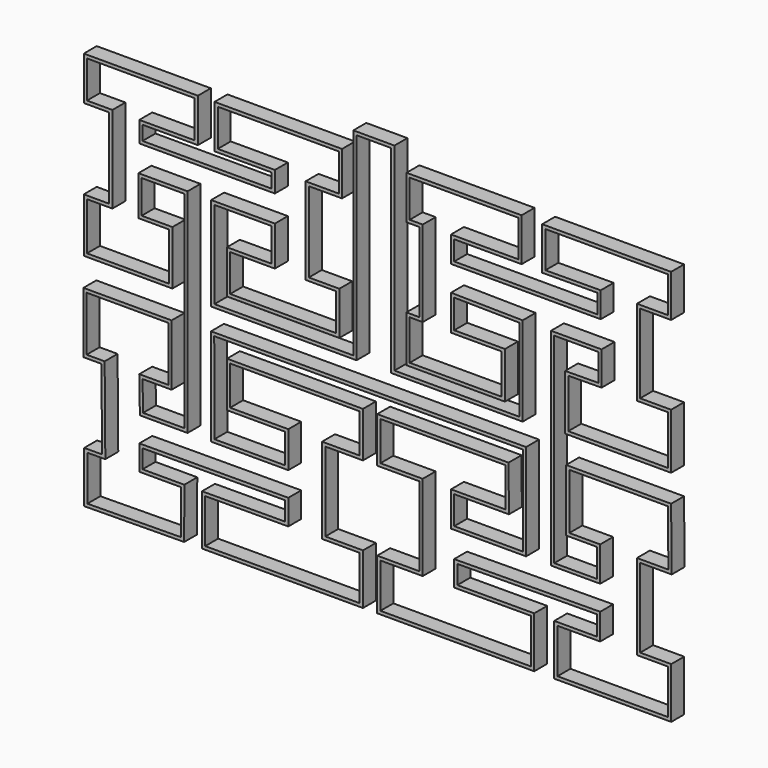
from build123d import *

# Parameters (mm, degrees)
F1_DEPTH = 5
F2_T     = -1
F3_DEPTH = 25


with BuildPart() as f1:
    # F0 (on Front) → F1 (new body)
    with BuildSketch(Plane.XZ):
        Polygon((9.8323541223, 52.141069883), (-2.8801037779, 52.141069883), (-2.8801037779, -9.1040549872), (-45.8210122276, -9.1040549872), (-45.8210122276, 17.8946969134), (-28.1239244143, 17.8946969134), (-28.1239244143, 7.6380371082), (-41.9518950383, 7.6380371082), (-41.9518950383, -5.7627889328), (-7.1966331452, -5.7627889328), (-7.1966331452, 7.6380371082), (-16.6341755539, 7.6380371082), (-16.6341755539, 32.4835627029), (-6.3618822023, 32.4835627029), (-6.3618822023, 45.9502711892), (-45.7798242569, 45.9502711892), (-45.7798242569, 32.4835627029), (-28.1239244143, 32.4835627029), (-28.1239244143, 28.068519814), (-68.0355671877, 28.068519814), (-68.0355671877, 32.4835627029), (-50.9287603199, 32.4835627029), (-50.9287603199, 45.9502711892), (-86.2032026052, 45.9502711892), (-86.2032026052, 32.4835627029), (-78.350558877, 32.4835627029), (-78.350558877, 7.6380371082), (-86.2032026052, 7.6380371082), (-86.2084256543, -9.0980247099), (-58.7982721627, -9.0980247099), (-58.7982721627, 7.6380371082), (-68.3150440454, 7.6380371082), (-68.3150440454, 17.8946969134), (-55.1193766296, 17.8946969134), (-55.1193766296, -45.8752017166), (-67.8728502767, -45.8752017166), (-68.0355671877, -36.7151834071), (-59.0528063476, -36.7151834071), (-59.0528063476, -17.8425349295), (-86.3168910146, -17.8425349295), (-86.3168910146, -36.7151834071), (-80.742649937, -36.7151834071), (-80.5478990078, -61.2841211259), (-86.0880537757, -61.3280363453), (-86.0880537757, -77.1915001414), (-55.1590844989, -76.8809225729), (-55.1193766296, -61.2841211259), (-68.0355671877, -61.2841211259), (-68.0355671877, -55.5468569188), (-23.9746289969, -55.3859008138), (-23.9746289969, -61.1902868573), (-49.6612962319, -61.2841211259), (-49.6612962319, -76.8809225729), (0.1065466786, -76.8809225729), (0.1065466786, -61.1902868573), (-11.5395281464, -61.1902868573), (-11.5395281464, -36.7151834071), (0.1065466786, -36.7151834071), (0.1065466786, -22.6845268962), (-41.9518950382, -22.6845268962), (-41.9518950382, -36.7151834071), (-23.9746289969, -36.7151834071), (-23.9746289969, -45.8752017166), (-45.8210122276, -45.8752017166), (-45.8714998239, -17.8425349295), (49.52357826, -17.6707257958), (49.52357826, -45.4286533787), (28.3165536821, -45.4286533787), (28.3165536821, -36.7151834071), (45.2205638685, -36.7151834071), (45.1130460903, -22.6736997258), (4.497054033, -22.6736997258), (4.497054033, -36.7151834071), (17.5680443645, -36.7151834071), (17.5680443645, -61.1902868573), (4.497054033, -61.1902868573), (4.497054033, -76.8809225729), (53.0437139957, -76.8809225729), (53.0437139957, -61.1050252414), (29.2781579867, -61.1478276551), (29.2781579867, -55.3859008138), (72.4363327026, -55.0554320996), (72.4363327026, -61.1478276551), (59.2331771321, -61.1478276551), (59.2331771321, -76.8809225729), (95.4031101381, -76.8809225729), (95.4031101381, -61.1478276551), (85.8001708984, -61.1478276551), (85.8001708984, -36.7143165791), (95.5305558838, -36.7151834071), (95.3607839749, -17.520358786), (62.8960803151, -17.520358786), (62.8960803151, -36.7151834071), (72.4363327026, -36.7151834071), (72.4363327026, -45.4286533787), (59.2331771321, -45.4286533787), (59.2331771321, 16.4868287052), (72.8601742497, 16.4868287052), (72.8601742497, 8.0649256706), (62.5771250565, 7.9732446234), (62.5771250565, -9.1040549872), (95.3607839749, -9.1040549872), (95.3607839749, 8.0649256706), (85.8001708984, 8.0649256706), (85.8001708984, 32.4835627029), (95.3607839749, 32.4835627029), (95.3607839749, 45.596408951), (55.5066354573, 45.596408951), (55.5066354573, 32.3862178102), (72.5976973772, 32.4835627029), (72.5976973772, 26.6065312343), (28.3165536821, 26.6065312343), (28.3165536821, 32.6414860447), (49.1472445428, 32.6414860447), (49.1472445428, 45.9502711892), (13.5501036421, 45.9502711892), (13.5501036421, 32.4835627029), (17.5680443645, 32.4835627029), (17.5680443645, 7.9322241412), (13.5501036421, 7.9672304788), (13.5501036421, -6.4323209775), (44.0036654472, -6.4323209775), (44.0036654472, 7.8907705259), (28.3165536821, 7.8907705259), (28.3165536821, 16.7739558245), (48.477632633, 16.4868287052), (48.477632633, -9.1040549872), (9.8323541223, -9.0919944326), align=None)
    extrude(amount=F1_DEPTH)

    # F2
    f2_openings = [f1.faces().sort_by_distance(p)[0] for p in [
        (4.45163, -5, -15.186462),
    ]]
    offset(amount=F2_T, openings=f2_openings, kind=Kind.INTERSECTION)

    # F3 (cut): a face of the model
    f3_faces = [f1.faces().sort_by_distance(p)[0] for p in [
        (4.6938205792, -1, -15.4802111433),
    ]]
    extrude(f3_faces, amount=-F3_DEPTH, mode=Mode.SUBTRACT)


solid = f1.part
